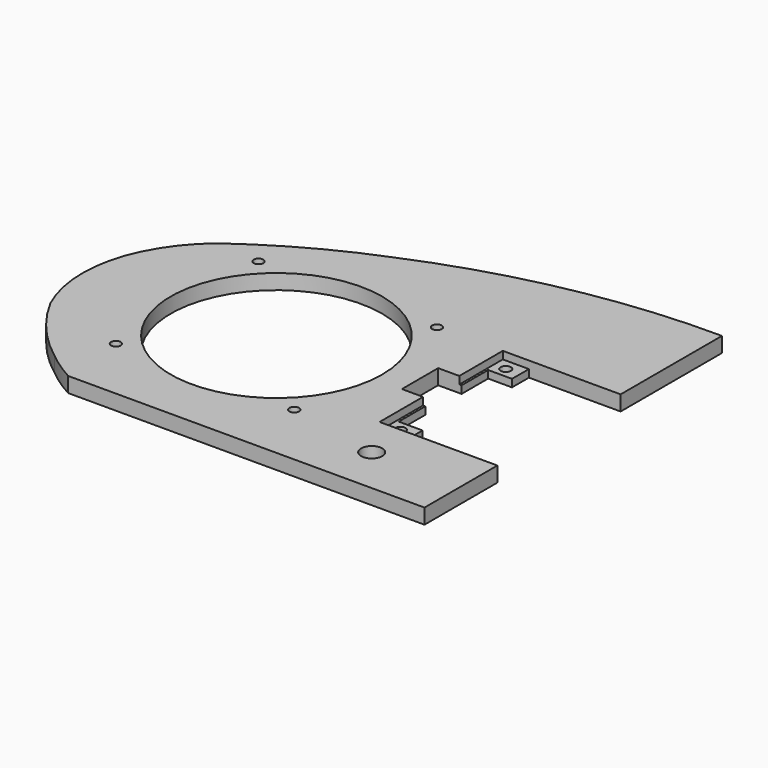
from build123d import *

# Parameters (mm, degrees)
PAD001_DEPTH    = 5
SKETCH009_R     = 35
SKETCH009_R_2   = 1.6
POCKET002_DEPTH = 5.001
SKETCH010_R     = 3.5
SKETCH010_R_2   = 1.7
POCKET003_DEPTH = 5.001
COPYSKETCH026_W = 39
COPYSKETCH026_H = 51
POCKET029_DEPTH = 7.5
SKETCH034_W     = 8
SKETCH034_H     = 15
POCKET035_DEPTH = 5.001


with BuildPart() as part:
    # Sketch008 → Pad001 (new body)
    with BuildSketch(Plane.XY):
        with BuildLine():
            Line((0, 67.42), (0, -55.65))
            Line((0, -55.65), (-117.94, -55.65))
            ThreePointArc((-127.64, -49.11), (-122.947197, -52.613151), (-117.94, -55.65))
            ThreePointArc((-146.95, -26.77), (-138.520798, -38.999541), (-127.64, -49.11))
            ThreePointArc((-148.54, 6.09), (-150.980867, -10.496574), (-146.95, -26.77))
            ThreePointArc((-134.5, 26.2), (-142.831473, 17.060618), (-148.54, 6.09))
            ThreePointArc((-94.13, 48.54), (-115.023795, 38.650843), (-134.5, 26.2))
            ThreePointArc((0, 67.42), (-48.036997, 62.826084), (-94.13, 48.54))
        make_face()
    extrude(amount=PAD001_DEPTH)

    # Sketch009 (on Face10 of Pad001) → Pocket002 (cut, through all)
    with BuildSketch(Plane.XY.offset(5)):
        with Locations((-90.05, -4.36)):
            Circle(SKETCH009_R)
        with Locations((-119.571708, 25.161708)):
            Circle(SKETCH009_R_2)
        with Locations((-119.571708, -33.881708)):
            Circle(SKETCH009_R_2)
        with Locations((-60.528292, -33.881708)):
            Circle(SKETCH009_R_2)
        with Locations((-60.528292, 25.161708)):
            Circle(SKETCH009_R_2)
    extrude(amount=-POCKET002_DEPTH, mode=Mode.SUBTRACT)

    # Sketch010 (on Face5 of Pocket002) → Pocket003 (cut, through all)
    with BuildSketch(Plane.XY.offset(5)):
        with Locations((-30, -40)):
            Circle(SKETCH010_R)
        with Locations((-35.05, 21.8)):
            Circle(SKETCH010_R_2)
        with Locations((-35.05, -21.8)):
            Circle(SKETCH010_R_2)
        Polygon((0, 25.5), (-30.35, 25.5), (-30.35, 18.5), (-38.25, 18.5), (-38.25, -18.5), (-30.35, -18.5), (-30.35, -25.5), (0, -25.5), align=None)
    extrude(amount=-POCKET003_DEPTH, mode=Mode.SUBTRACT)

    # CopySketch026 → Pocket029 (cut)
    with BuildSketch(Plane.XY.offset(10)):
        with Locations((-19.5, 0)):
            Rectangle(COPYSKETCH026_W, COPYSKETCH026_H)
    extrude(amount=-POCKET029_DEPTH, mode=Mode.SUBTRACT)

    # Sketch034 (on Face5 of Pocket029) → Pocket035 (cut, through all)
    with BuildSketch(Plane.XY.offset(5)):
        with Locations((-42, 0)):
            Rectangle(SKETCH034_W, SKETCH034_H)
    extrude(amount=-POCKET035_DEPTH, mode=Mode.SUBTRACT)


with BuildPart() as part_1:
    # Body001 placement: moved
    add(part.part.moved(Location((0, 0, -3))))


solid = part_1.part
